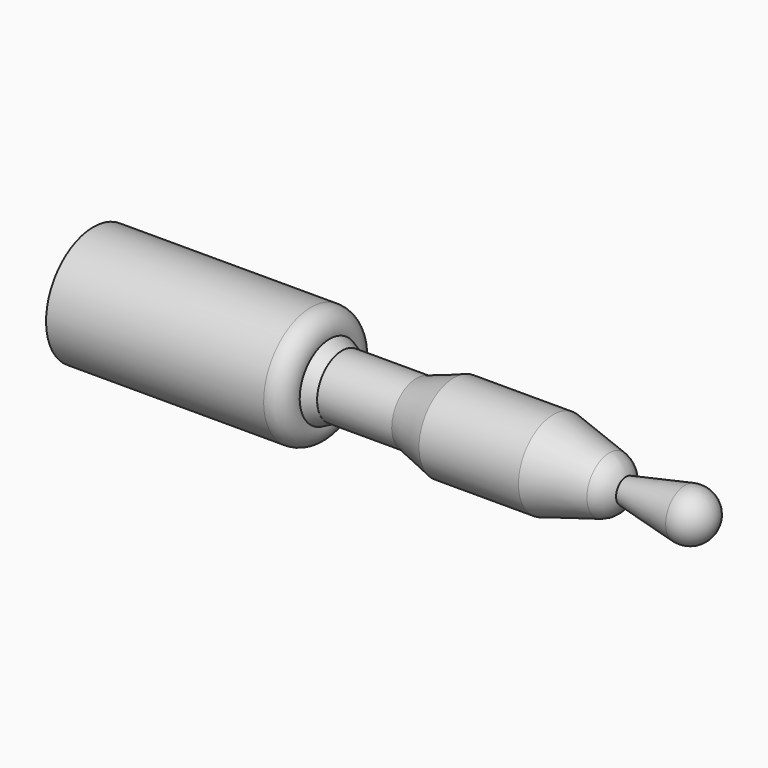
from build123d import *


with BuildPart() as f1:
    # F0 (on Front) → F1 (revolve)
    with BuildSketch(Plane.XZ):
        with BuildLine():
            Line((-100, 0), (0, 0))
            ThreePointArc((0, 0), (-1.466836, 3.095655), (-4.79154, 3.920901))
            Line((-4.79154, 3.920901), (-14.306736, 2))
            ThreePointArc((-14.306736, 2), (-15.34929, 3.577584), (-17, 4.5))
            Line((-17, 4.5), (-26, 7))
            Line((-26, 7), (-42, 7))
            Line((-42, 7), (-48, 5))
            Line((-48, 5), (-60, 5))
            Line((-60, 5), (-62, 6))
            ThreePointArc((-62, 6), (-62.695114, 8.439902), (-65, 9.5))
            Line((-65, 9.5), (-100, 9.5))
            Line((-100, 9.5), (-100, 0))
        make_face()
    revolve(axis=Axis((-50, 0, 0), (1, 0, 0)))


solid = f1.part
